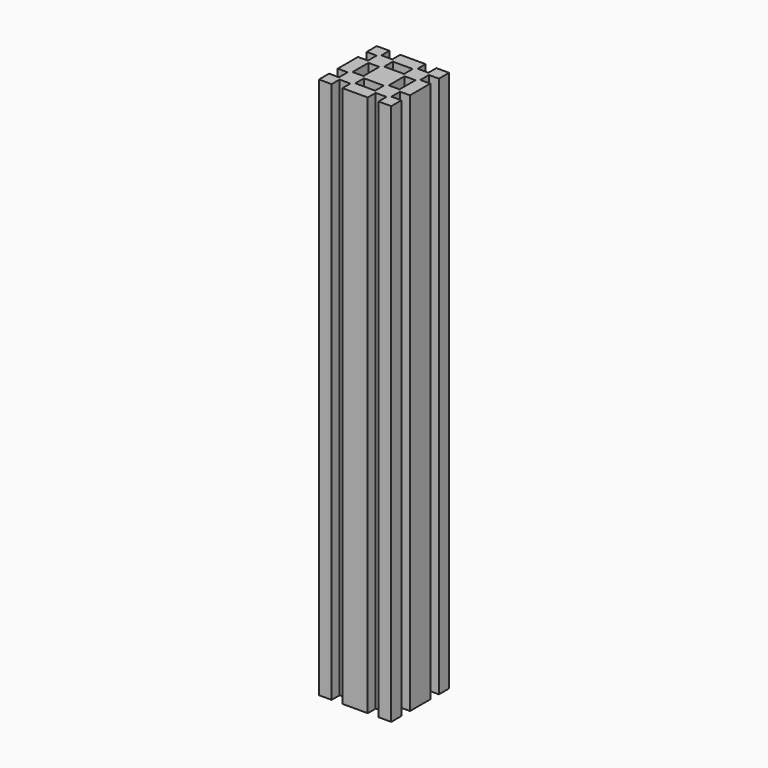
from build123d import *

# Parameters (mm, degrees)
F1_DEPTH = 300


with BuildPart() as f1:
    # F0 (on Top) → F1 (new body)
    with BuildSketch(Plane.XY):
        Polygon((0, 7), (0, 0), (7, 0), (7, 5.5), (13, 5.5), (13, 0), (20, 0), (20, 7), (14.5, 7), (14.5, 13), (20, 13), (20, 20), (13, 20), (13, 14.5), (7, 14.5), (7, 20), (0, 20), (0, 13), (5.5, 13), (5.5, 7), align=None)
        Polygon((-7, 0), (0, 0), (0, 7), (-5.5, 7), (-5.5, 13), (0, 13), (0, 20), (-7, 20), (-7, 14.5), (-13, 14.5), (-13, 20), (-20, 20), (-20, 13), (-14.5, 13), (-14.5, 7), (-20, 7), (-20, 0), (-13, 0), (-13, 5.5), (-7, 5.5), align=None)
        Polygon((0, -7), (0, 0), (-7, 0), (-7, -5.5), (-13, -5.5), (-13, 0), (-20, 0), (-20, -7), (-14.5, -7), (-14.5, -13), (-20, -13), (-20, -20), (-13, -20), (-13, -14.5), (-7, -14.5), (-7, -20), (0, -20), (0, -13), (-5.5, -13), (-5.5, -7), align=None)
        Polygon((7, 0), (0, 0), (0, -7), (5.5, -7), (5.5, -13), (0, -13), (0, -20), (7, -20), (7, -14.5), (13, -14.5), (13, -20), (20, -20), (20, -13), (14.5, -13), (14.5, -7), (20, -7), (20, 0), (13, 0), (13, -5.5), (7, -5.5), align=None)
    extrude(amount=F1_DEPTH)


solid = f1.part
